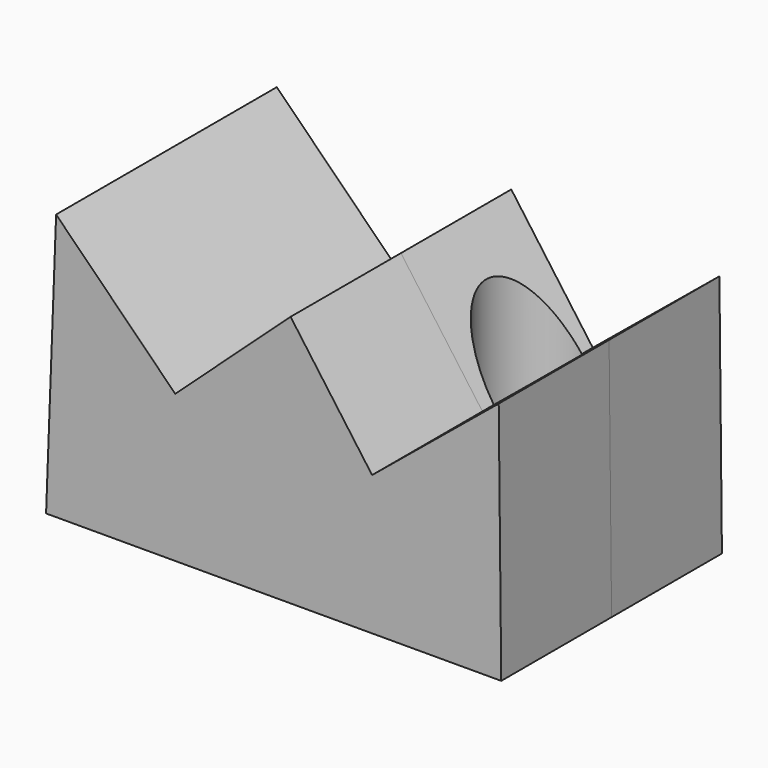
from build123d import *

# Parameters (mm, degrees)
F1_DEPTH = 25
F2_R     = 10
F3_DEPTH = 48.296453
F4_DEPTH = 25


with BuildPart() as f1:
    # F0 (on Front) → F1 (new body)
    with BuildSketch(Plane.XZ):
        Polygon((-42.272728, 48.295453), (-44.090912, 0), (38.409095, 0.113636), (37.954547, 44.204548), (15, 25.340911), (0.227272, 45.795456), (-20.681819, 26.704546), align=None)
    extrude(amount=F1_DEPTH)

    # F2 (on Top) → F3 (cut, through all)
    with BuildSketch(Plane.XY):
        with Locations((15.652021, -12.450472)):
            Circle(F2_R)
    extrude(amount=F3_DEPTH, mode=Mode.SUBTRACT)

    # F1_face (on face) → F4 (join)
    with BuildSketch(Plane(origin=(-3.176306, -25, 18.476557), x_dir=(1, 0, 0), z_dir=(0, -1, 0))):
        Polygon((41.585401, -18.362921), (41.130852, 25.727991), (18.176306, 6.864354), (3.403578, 27.318898), (-17.505513, 8.227989), (-39.096422, 29.818896), (-40.914606, -18.476557), align=None)
    extrude(amount=F4_DEPTH)


solid = f1.part
